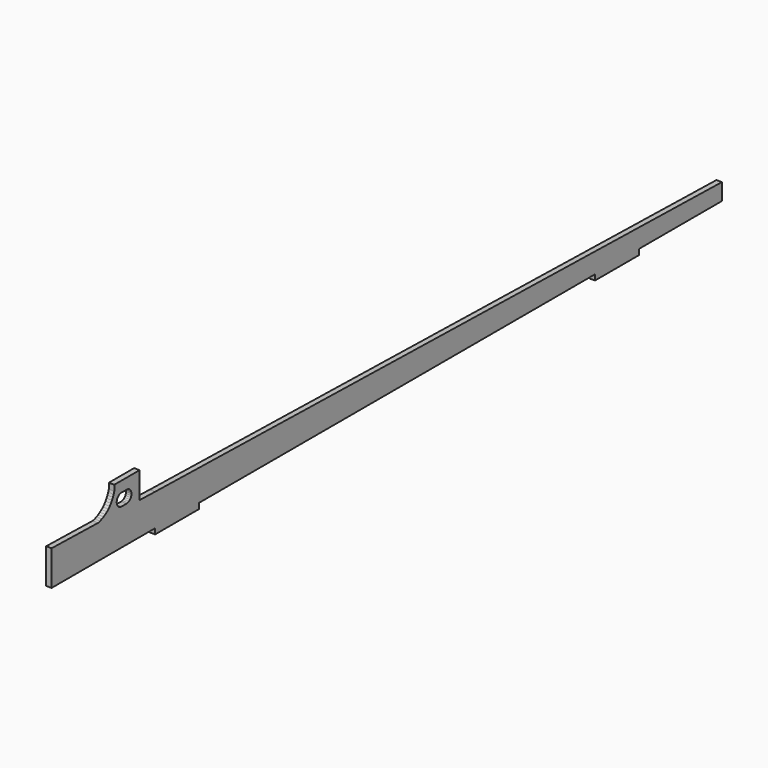
from build123d import *

# Parameters (mm, degrees)
F1_DEPTH = 4
F2_ANGLE = 90
F3_ANGLE = 180


with BuildPart() as f1:
    # F0 (on Right) → F1 (new body)
    with BuildSketch(Plane.YZ):
        Polygon((-4.2630598, 224.8000076), (-3.8891464, 210.6000106), (7.3218294, -304.8), (19.4630294, -304.8), (19.4630294, -229.3999984), (23.4630468, -229.3999984), (23.4630468, -189.4000022), (19.4630294, -189.4000022), (19.4630294, 170.6000144), (23.4630468, 170.6000144), (23.4630468, 210.6000106), (19.4630294, 210.6000106), (19.4630294, 304.8), (-5.9369706, 304.8), (-5.0152046, 262.3993228), (-5.482082, 260.6712084), (-6.1067696, 258.9936908), (-6.883908, 257.381121), (-7.806817, 255.847342), (-8.867648, 254.4054856), (-10.057257, 253.0678962), (-11.3654586, 251.8460546), (-12.7810514, 250.7504256), (-14.2918942, 249.7904072), (-15.885033, 248.9742036), (-17.546828, 248.3088506), (-19.2630552, 247.8000124), (-23.4630468, 247.8000124), (-23.4630468, 224.8000076), align=None)
        Polygon((-14.4949672, 233.4296322), (-15.2101042, 234.361609), (-15.6596588, 235.4469256), (-15.8129986, 241.1116082), (-15.6596588, 242.2762998), (-15.2101042, 243.3616164), (-14.4949672, 244.2935932), (-13.5629904, 245.0087302), (-12.4776738, 245.4582594), (-11.3130076, 245.6115992), (-10.148316, 245.4582594), (-9.0629994, 245.0087302), (-8.1310226, 244.2935932), (-7.4158856, 243.3616164), (-6.966331, 242.2762998), (-6.8129912, 241.1116082), (-6.8129912, 236.6116172), (-6.966331, 235.4469256), (-7.4158856, 234.361609), (-8.1310226, 233.4296322), (-9.0629994, 232.7144952), (-10.148316, 232.2649406), (-11.3130076, 232.1116008), (-12.4776738, 232.2649406), (-13.5629904, 232.7144952), align=None, mode=Mode.SUBTRACT)
    extrude(amount=F1_DEPTH)


with BuildPart() as f1_1:
    # F2: moved
    add(f1.part.rotate(Axis((2, 23.4630468, 210.6000106), (-1, 0, 0)), F2_ANGLE))


with BuildPart() as f1_2:
    # F3: moved
    add(f1_1.part.rotate(Axis((0, 117.6630362, 227.300028), (0, 0, 1)), F3_ANGLE))


solid = f1_2.part
